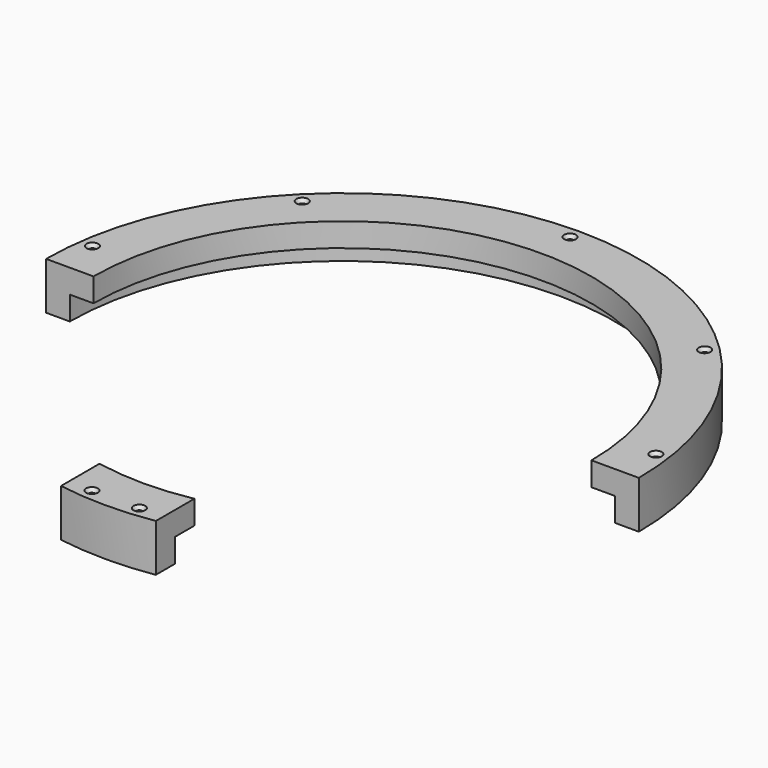
from build123d import *

# Parameters (mm, degrees)
F0_R           = 158.75
F0_R_2         = 133.35
F1_DEPTH       = 25.4
F2_R           = 146.05
F2_R_2         = 133.35
F3_DEPTH       = 12.7
F5_DEPTH       = 25.401
F7_D           = 3.175
F7_DEPTH       = 31.75
F7_CSINK_D     = 6.35
F7_CSINK_ANGLE = 82
F7_TIP         = 0.9538662327


with BuildPart() as f1:
    # F0 (on Top) → F1 (new body)
    with BuildSketch(Plane.XY):
        Circle(F0_R)
        Circle(F0_R_2, mode=Mode.SUBTRACT)
    extrude(amount=F1_DEPTH)

    # F2 (on face) → F3 (cut)
    with BuildSketch(Plane(origin=(0, 0, 0), x_dir=(1, 0, 0), z_dir=(0, 0, -1))):
        Circle(F2_R)
        Circle(F2_R_2, mode=Mode.SUBTRACT)
    extrude(amount=-F3_DEPTH, mode=Mode.SUBTRACT)

    # F4 (on face) → F5 (cut, through all)
    with BuildSketch(Plane.XY.offset(25.4)):
        with BuildLine():
            Line((158.75, 0), (133.35, 0))
            ThreePointArc((133.35, 0), (102.8817585872, -84.8384715209), (25.4, -130.9086036134))
            Line((25.4, -130.9086036134), (25.4, -156.7048260265))
            ThreePointArc((25.4, -156.7048260265), (120.9003980556, -102.8817585872), (158.75, 0))
        make_face()
        with BuildLine():
            ThreePointArc((-25.4, -130.9086036134), (-102.8817585872, -84.8384715209), (-133.35, 0))
            Line((-133.35, 0), (-158.75, 0))
            ThreePointArc((-158.75, 0), (-120.9003980556, -102.8817585872), (-25.4, -156.7048260265))
            Line((-25.4, -156.7048260265), (-25.4, -130.9086036134))
        make_face()
    extrude(amount=-F5_DEPTH, mode=Mode.SUBTRACT)

    # F7
    with Locations(Plane.XY.offset(25.4)):
        with Locations((-150.9168536762, 21.2099805863), (-107.7630734528, 107.7630734528), (0, 152.4), (107.7630734528, 107.7630734528), (150.9168536762, 21.2099805863), (-12.7, -151.8699114374), (12.7, -151.8699114374)):
            CounterSinkHole(F7_D / 2, F7_CSINK_D / 2, depth=F7_DEPTH, counter_sink_angle=F7_CSINK_ANGLE)
            with Locations((0, 0, -(F7_DEPTH + F7_TIP / 2))):  # 118° drill point
                Cone(0, F7_D / 2, F7_TIP, mode=Mode.SUBTRACT)


solid = f1.part
